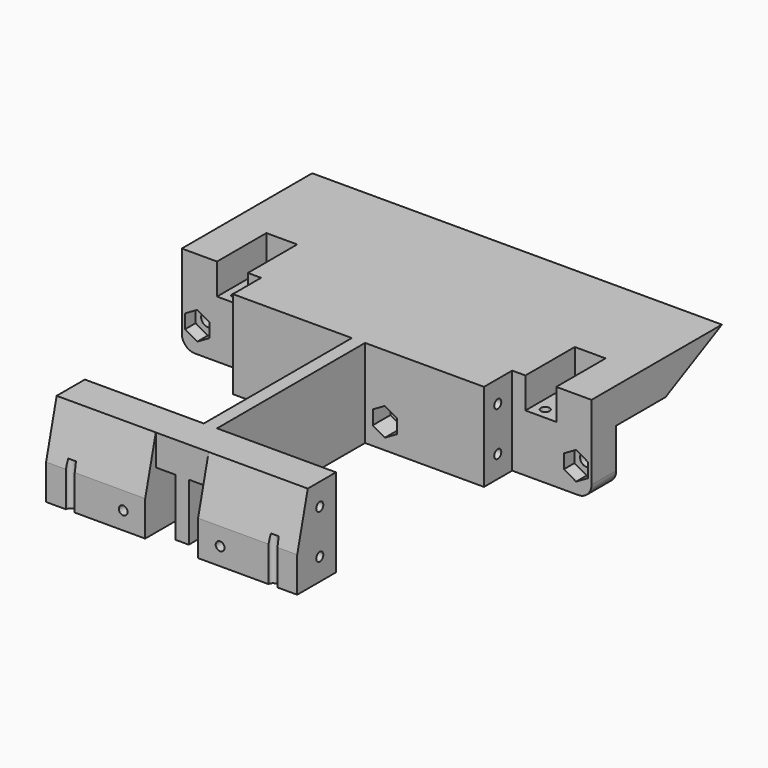
from build123d import *

# Parameters (mm, degrees)
F1_DEPTH      = 20
F2_R          = 1
F3_DEPTH      = 10
F4_R          = 1
F5_DEPTH      = 10
F7_DEPTH      = 75
F7_DEPTH_BACK = -18
F9_DEPTH      = 12
F11_DEPTH     = 12
F12_W         = 18
F12_H         = 20
F13_DEPTH     = 7
F14_R         = 1.5
F15_DEPTH     = 25
F16_R         = 3
F18_DEPTH     = 22.5
F20_DEPTH     = 22.5
F21_R         = 1
F22_DEPTH     = 10
F23_W         = 7
F23_H         = 14
F24_DEPTH     = 7
F25_R         = 1
F26_DEPTH     = 25
F27_R         = 1
F28_DEPTH     = 10
F29_R         = 1.5
F30_R         = 1.5
F33_DEPTH     = 5
F32_R         = 1.5
F34_DEPTH     = 3


with BuildPart() as f1:
    # F0 (on Top) → F1 (new body)
    with BuildSketch(Plane.XY):
        Polygon((0, 8), (0, 0), (57, 0), (57, 8), (30, 8), (30, 50), (57, 50), (57, 65), (0, 65), (0, 50), (27, 50), (27, 8), align=None)
    extrude(amount=F1_DEPTH)

    # F2 (on face) → F3 (cut)
    with BuildSketch(Plane.YZ.offset(57)):
        with Locations((3.4, 15)):
            Circle(F2_R)
        with Locations((3.4, 5)):
            Circle(F2_R)
        with Locations((53.9, 15)):
            Circle(F2_R)
        with Locations((53.9, 5)):
            Circle(F2_R)
    extrude(amount=-F3_DEPTH, mode=Mode.SUBTRACT)

    # F4 (on face) → F5 (cut)
    with BuildSketch(Plane(origin=(0, 0, 0), x_dir=(0, -1, 0), z_dir=(-1, 0, 0))):
        with Locations((-53.9, 15)):
            Circle(F4_R)
        with Locations((-53.9, 5)):
            Circle(F4_R)
        with Locations((-3.4, 15)):
            Circle(F4_R)
        with Locations((-3.4, 5)):
            Circle(F4_R)
    extrude(amount=-F5_DEPTH, mode=Mode.SUBTRACT)

    # F6 (on face) → F7 (join, two sides)
    with BuildSketch(Plane.YZ.offset(57)) as f7_sk:
        Polygon((65, 20), (65, 5), (95, 20), align=None)
    extrude(amount=-F7_DEPTH)
    extrude(f7_sk.sketch, amount=-F7_DEPTH_BACK)

    # F8 (on face) → F9 (cut)
    with BuildSketch(Plane.XZ):
        Polygon((27, 0), (27, 13), (22.5, 13), (22.5, 7), (22.5, 0), align=None)
        Polygon((30, 13), (30, 0), (34.5, 0), (34.5, 7), (34.5, 13), align=None)
    extrude(amount=-F9_DEPTH, mode=Mode.SUBTRACT)

    # F10 (on face) → F11 (cut)
    with BuildSketch(Plane(origin=(0, 0, 0), x_dir=(1, 0, 0), z_dir=(0, 0, -1))):
        Polygon((27, -105), (27, -65), (0, -65), (-23, -65), (-23, -105), align=None)
        Polygon((57, -65), (30, -65), (30, -105), (80, -105), (80, -65), align=None)
    extrude(amount=-F11_DEPTH, mode=Mode.SUBTRACT)

    # F12 (on face) → F13 (join)
    with BuildSketch(Plane(origin=(0, 65, 0), x_dir=(-1, 0, 0), z_dir=(0, 1, 0))):
        with Locations((-66, 10)):
            Rectangle(F12_W, F12_H)
        with Locations((9, 10)):
            Rectangle(F12_W, F12_H)
    extrude(amount=-F13_DEPTH)

    # F14 (on face) → F15 (cut)
    with BuildSketch(Plane(origin=(0, 65, 0), x_dir=(-1, 0, 0), z_dir=(0, 1, 0))):
        with Locations((-71.5, 5.7)):
            Circle(F14_R)
        with Locations((-34.5, 5.7)):
            Circle(F14_R)
        with Locations((-22.5, 5.7)):
            Circle(F14_R)
        with Locations((14.5, 5.7)):
            Circle(F14_R)
    extrude(amount=-F15_DEPTH, mode=Mode.SUBTRACT)

    # F16
    f16_edges = [f1.edges().sort_by_distance(p)[0] for p in [
        (75, 61.5, 0),
        (-18, 61.5, 0),
    ]]
    fillet(f16_edges, radius=F16_R)

    # F17 (on face) → F18 (join, through all)
    with BuildSketch(Plane.YZ.offset(57)):
        Polygon((-3, 8), (-3, 0), (0, 0), (0, 20), align=None)
    extrude(amount=-F18_DEPTH)

    # F19 (on face) → F20 (join, through all)
    with BuildSketch(Plane(origin=(0, 0, 0), x_dir=(0, -1, 0), z_dir=(-1, 0, 0))):
        Polygon((0, 0), (3, 0), (3, 8), (0, 20), align=None)
    extrude(amount=-F20_DEPTH)

    # F21 (on face) → F22 (cut)
    with BuildSketch(Plane(origin=(0, 0, 0), x_dir=(1, 0, 0), z_dir=(0, 0, -1))):
        with Locations((5.5, -57)):
            Circle(F21_R)
        with Locations((5.5, 3)):
            Circle(F21_R)
        with Locations((51.5, 3)):
            Circle(F21_R)
        with Locations((51.5, -57)):
            Circle(F21_R)
    extrude(amount=-F22_DEPTH, mode=Mode.SUBTRACT)

    # F23 (on face) → F24 (cut)
    with BuildSketch(Plane.XY.offset(20)):
        with Locations((-6.5, 65)):
            Rectangle(F23_W, F23_H)
        with Locations((63.5, 65)):
            Rectangle(F23_W, F23_H)
    extrude(amount=-F24_DEPTH, mode=Mode.SUBTRACT)

    # F25 (on face) → F26 (cut)
    with BuildSketch(Plane.XZ.offset(3)):
        with Locations((17.5, 4)):
            Circle(F25_R)
        with Locations((39.5, 4)):
            Circle(F25_R)
    extrude(amount=-F26_DEPTH, mode=Mode.SUBTRACT)

    # F27 (on face) → F28 (cut)
    with BuildSketch(Plane.XY.offset(13)):
        with Locations((-7.5, 60.5)):
            Circle(F27_R)
        with Locations((62.5, 60.5)):
            Circle(F27_R)
    extrude(amount=-F28_DEPTH, mode=Mode.SUBTRACT)

    # F29 (on face) + F30 (on face) → F33 (cut)
    with BuildSketch(Plane.XZ.offset(-50)):
        Polygon((34.5, 2.524574), (37.25, 4.112287), (37.25, 7.287713), (34.5, 8.875426), (31.75, 7.287713), (31.75, 4.112287), align=None)
        with Locations((34.5, 5.7)):
            Circle(F29_R, mode=Mode.SUBTRACT)
    with BuildSketch(Plane.XZ.offset(-50)):
        Polygon((19.75, 7.287713), (19.75, 4.112287), (22.5, 2.524574), (25.25, 4.112287), (25.25, 7.287713), (22.5, 8.875426), align=None)
        with Locations((22.5, 5.7)):
            Circle(F30_R, mode=Mode.SUBTRACT)
    extrude(amount=-F33_DEPTH, mode=Mode.SUBTRACT)

    # F31 (on face) + F32 (on face) → F34 (cut)
    with BuildSketch(Plane.XZ.offset(-58)):
        Polygon((71.5, 8.875426), (68.75, 7.287713), (68.75, 4.112287), (71.5, 2.524574), (74.25, 4.112287), (74.25, 7.287713), align=None)
    with BuildSketch(Plane.XZ.offset(-58)):
        Polygon((-11.75, 4.112287), (-11.75, 7.287713), (-14.5, 8.875426), (-17.25, 7.287713), (-17.25, 4.112287), (-14.5, 2.524574), align=None)
        with Locations((-14.5, 5.7)):
            Circle(F32_R, mode=Mode.SUBTRACT)
    extrude(amount=-F34_DEPTH, mode=Mode.SUBTRACT)


solid = f1.part
